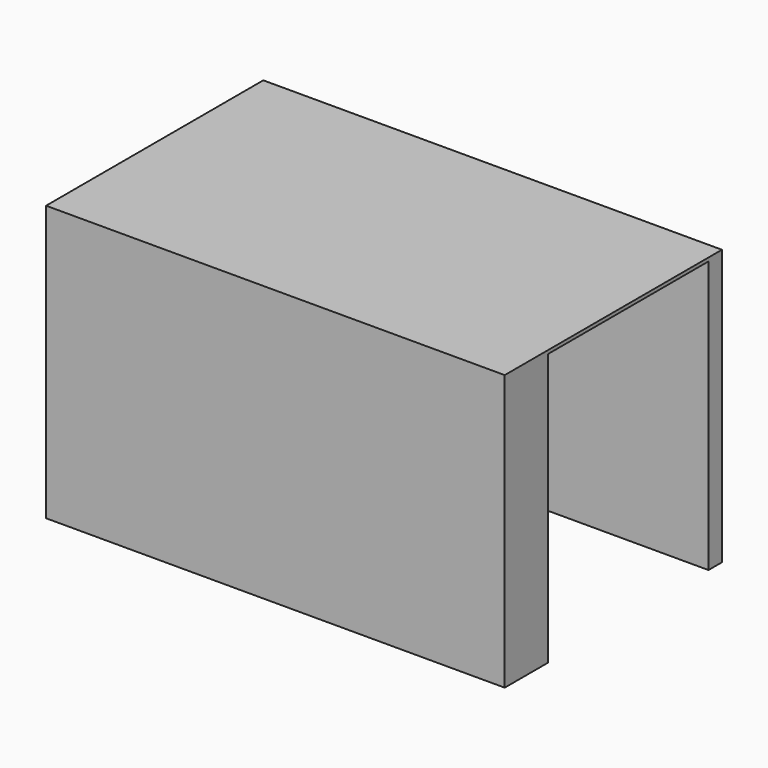
from build123d import *

# Parameters (mm, degrees)
F1_DEPTH = 75.184
F2_W     = 55.5663
F2_H     = 76.2
F3_DEPTH = 166.878


with BuildPart() as f1:
    # F0 (on Front) → F1 (new body)
    with BuildSketch(Plane.XZ):
        Polygon((0, 99.461373), (0, 23.261373), (63.5, 23.261373), (72.838239, 23.261373), (127, 23.261373), (127, 99.461373), align=None)
    extrude(amount=-F1_DEPTH)

    # F2 (on face) → F3 (cut)
    with BuildSketch(Plane.YZ.offset(127)):
        with Locations((42.748903, 60.408995)):
            Rectangle(F2_W, F2_H)
    extrude(amount=-F3_DEPTH, mode=Mode.SUBTRACT)


solid = f1.part
